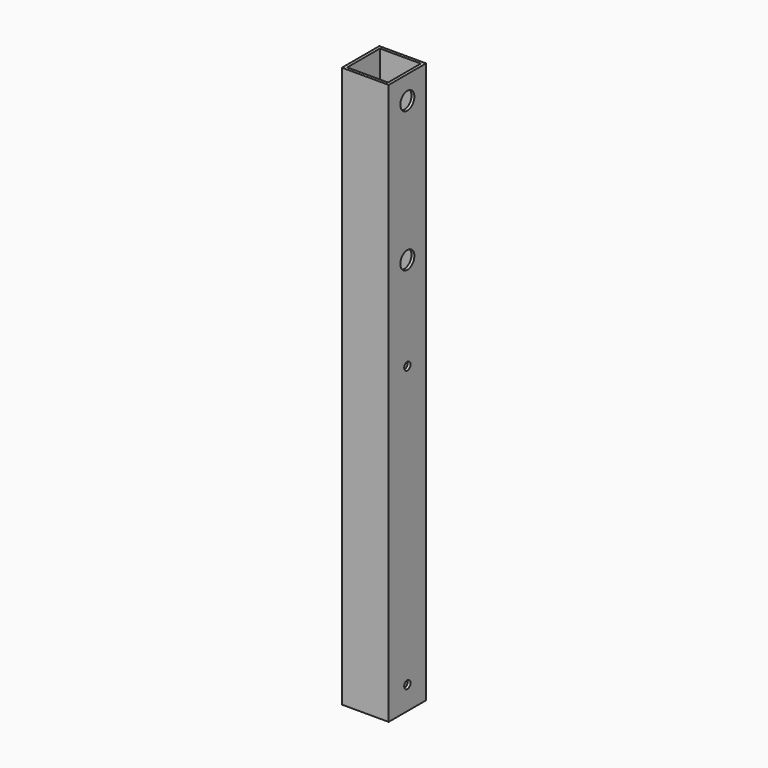
from build123d import *

# Parameters (mm, degrees)
F0_W     = 25.4
F0_H     = 25.4
F0_W_2   = 22.225
F0_H_2   = 22.225
F1_DEPTH = 304.8
F2_R     = 3.175
F3_DEPTH = 1.5875
F4_R     = 2.15265
F5_DEPTH = 25.4
F6_R     = 4.7625
F7_DEPTH = 1.5875
F8_R     = 4.7625
F9_DEPTH = 1.5875


with BuildPart() as f1:
    # F0 (on Top) → F1 (new body)
    with BuildSketch(Plane.XY):
        Rectangle(F0_W, F0_H)
        Rectangle(F0_W_2, F0_H_2, mode=Mode.SUBTRACT)
    extrude(amount=F1_DEPTH)

    # F2 (on face) → F3 (cut, through all)
    with BuildSketch(Plane(origin=(0, 12.7, 0), x_dir=(-1, 0, 0), z_dir=(0, 1, 0))):
        with Locations((0, 152.4)):
            Circle(F2_R)
    extrude(amount=-F3_DEPTH, mode=Mode.SUBTRACT)

    # F4 (on face) → F5 (cut, through all)
    with BuildSketch(Plane(origin=(-12.7, 0, 0), x_dir=(0, -1, 0), z_dir=(-1, 0, 0))):
        with Locations((0, 12.7)):
            Circle(F4_R)
        with Locations((0, 165.1)):
            Circle(F4_R)
        with Locations((0, 292.1)):
            Circle(F4_R)
        with Locations((0, 215.9)):
            Circle(F4_R)
    extrude(amount=-F5_DEPTH, mode=Mode.SUBTRACT)

    # F6 (on face) → F7 (cut, through all)
    with BuildSketch(Plane.YZ.offset(12.7)):
        with Locations((0, 292.1)):
            Circle(F6_R)
        with Locations((0, 215.9)):
            Circle(F6_R)
    extrude(amount=-F7_DEPTH, mode=Mode.SUBTRACT)

    # F8 (on face) → F9 (cut, through all)
    with BuildSketch(Plane(origin=(-12.7, 0, 0), x_dir=(0, -1, 0), z_dir=(-1, 0, 0))):
        with Locations((0, 165.1)):
            Circle(F8_R)
        with Locations((0, 12.7)):
            Circle(F8_R)
    extrude(amount=-F9_DEPTH, mode=Mode.SUBTRACT)


solid = f1.part
